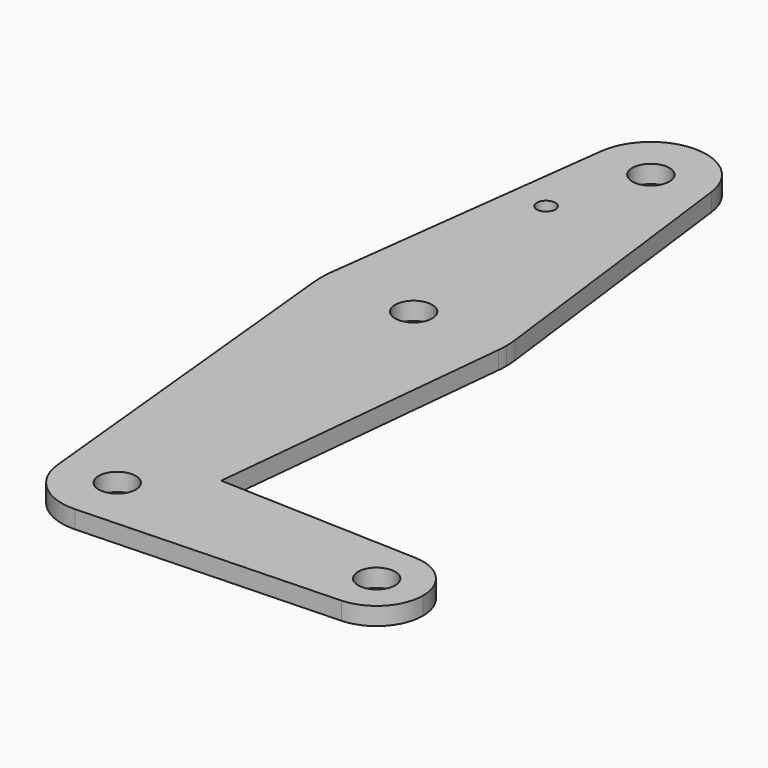
from build123d import *

# Parameters (mm, degrees)
F0_R     = 3.175
F1_DEPTH = 3.048


with BuildPart() as f1:
    # F0 (on Top) → F1 (new body)
    with BuildSketch(Plane.XY):
        with BuildLine():
            ThreePointArc((-9.4502929642, 115.490625), (-0.596483242, 104.7936951058), (9.525, 114.3))
            ThreePointArc((9.525, 114.3), (9.5063048942, 114.896483242), (9.4502929642, 115.490625))
            ThreePointArc((9.4502929642, 115.490625), (0, 123.825), (-9.4502929642, 115.490625))
        make_face()
        with Locations((0, 114.3)):
            Circle(F0_R, mode=Mode.SUBTRACT)
        with BuildLine():
            ThreePointArc((9.4502929642, 115.490625), (9.5063048942, 114.896483242), (9.525, 114.3))
            ThreePointArc((9.525, 114.3), (-0.596483242, 104.7936951058), (-9.4502929642, 115.490625))
            Line((-9.4502929642, 115.490625), (-15.7504882737, 65.484375))
            ThreePointArc((-15.7504882737, 65.484375), (-12.3530763019, 73.4708139527), (-5.2634207532, 78.4770500091))
            ThreePointArc((-5.2634207532, 78.4770500091), (8.3484757452, 77.0025396771), (15.7504882737, 65.484375))
            Line((15.7504882737, 65.484375), (9.4502929642, 115.490625))
        make_face()
        with BuildLine():
            ThreePointArc((-3.6759207532, 98.4377), (-4.140888738, 97.3151679849), (-5.2634207532, 96.8502))
            ThreePointArc((-5.2634207532, 96.8502), (-6.3859527683, 99.5602320151), (-3.6759207532, 98.4377))
        make_face(mode=Mode.SUBTRACT)
        with BuildLine():
            ThreePointArc((15.875, 63.5), (15.8438414904, 64.4941387366), (15.7504882737, 65.484375))
            ThreePointArc((15.7504882737, 65.484375), (8.3484757452, 77.0025396771), (-5.2634207532, 78.4770500091))
            ThreePointArc((-5.2634207532, 78.4770500091), (-12.3530763019, 73.4708139527), (-15.7504882737, 65.484375))
            ThreePointArc((-15.7504882737, 65.484375), (-15.8737438155, 63.6997054867), (-15.7954255641, 61.9125))
            ThreePointArc((-15.7954255641, 61.9125), (0, 47.625), (15.7954255641, 61.9125))
            ThreePointArc((15.7954255641, 61.9125), (15.8550939106, 62.7052534459), (15.875, 63.5))
        make_face()
        with Locations((0, 63.5)):
            Circle(F0_R, mode=Mode.SUBTRACT)
        with BuildLine():
            ThreePointArc((15.7954255641, 61.9125), (0, 47.625), (-15.7954255641, 61.9125))
            Line((-15.7954255641, 61.9125), (-9.4772553384, -0.9525))
            ThreePointArc((-9.4772553384, -0.9525), (-6.948684782, 6.5147068085), (0.3401785714, 9.5189234444))
            Line((0.3401785714, 9.5189234444), (10.4932062399, 9.1560838367))
            Line((10.4932062399, 9.1560838367), (15.7954255641, 61.9125))
        make_face()
        with BuildLine():
            ThreePointArc((0.3401785714, 9.5189234444), (-6.948684782, 6.5147068085), (-9.4772553384, -0.9525))
            ThreePointArc((-9.4772553384, -0.9525), (-6.2623833816, -7.1769199091), (0.3401785714, -9.5189234444))
            ThreePointArc((0.3401785714, -9.5189234444), (6.5147068085, -6.948684782), (9.4772553384, -0.9525))
            ThreePointArc((9.4772553384, -0.9525), (9.5130563464, -0.4768479324), (9.525, 0))
            ThreePointArc((9.525, 0), (6.8544082857, 6.6138273378), (0.3401785714, 9.5189234444))
        make_face()
        Circle(F0_R, mode=Mode.SUBTRACT)
        with BuildLine():
            Line((44.7334821429, 7.9324362036), (10.4932062399, 9.1560838367))
            Line((10.4932062399, 9.1560838367), (9.4772553384, -0.9525))
            ThreePointArc((9.4772553384, -0.9525), (6.5147068085, -6.948684782), (0.3401785714, -9.5189234444))
            Line((0.3401785714, -9.5189234444), (44.7334821429, -7.9324362036))
            ThreePointArc((44.7334821429, -7.9324362036), (36.5125, 0), (44.7334821429, 7.9324362036))
        make_face()
        with BuildLine():
            Line((9.4772553384, -0.9525), (10.4932062399, 9.1560838367))
            Line((10.4932062399, 9.1560838367), (0.3401785714, 9.5189234444))
            ThreePointArc((0.3401785714, 9.5189234444), (6.8544082857, 6.6138273378), (9.525, 0))
            ThreePointArc((9.525, 0), (9.5130563464, -0.4768479324), (9.4772553384, -0.9525))
        make_face()
        with BuildLine():
            ThreePointArc((52.3875, 0), (50.1620069047, 5.5115227815), (44.7334821429, 7.9324362036))
            ThreePointArc((44.7334821429, 7.9324362036), (36.5125, 0), (44.7334821429, -7.9324362036))
            ThreePointArc((44.7334821429, -7.9324362036), (50.1620069047, -5.5115227815), (52.3875, 0))
        make_face()
        with Locations((44.45, 0)):
            Circle(F0_R, mode=Mode.SUBTRACT)
    extrude(amount=F1_DEPTH)


solid = f1.part
